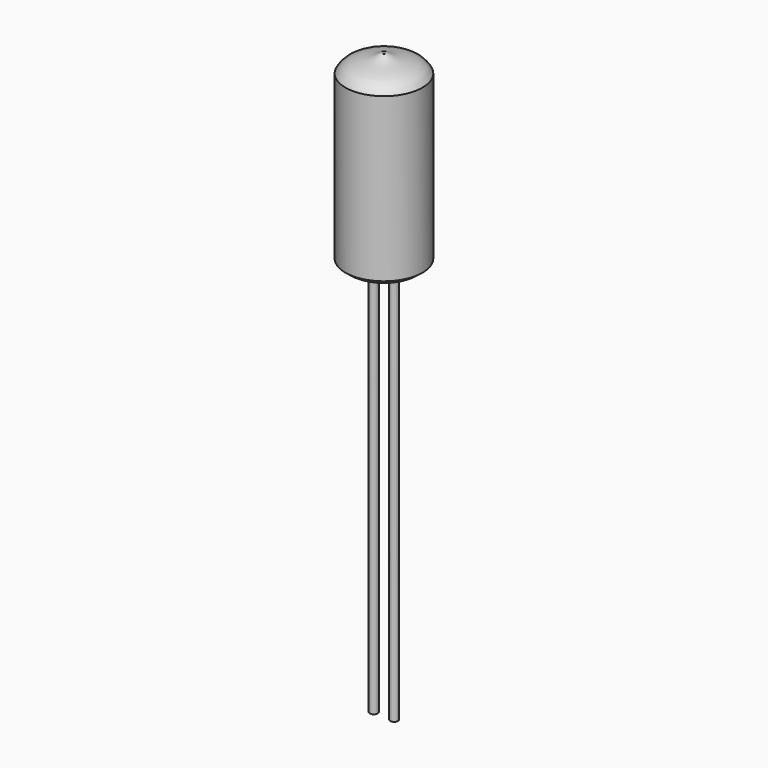
from build123d import *

# Parameters (mm, degrees)
F2_R     = 0.25
F3_DEPTH = 25


with BuildPart() as f1:
    # F0 (on Front) → F1 (revolve)
    with BuildSketch(Plane.XZ):
        with BuildLine():
            Line((-1.0382650653, 0), (0, 0))
            Line((0, 0), (0, 12))
            add(Edge.make_bspline(
                [(-2.45, 10.9379906207), (-2.4408226597, 10.9550904713), (-2.4150316272, 11.0031460941), (-2.2904333871, 11.1886248685), (-2.1793829443, 11.2995767876), (-2.1283320627, 11.3354263793), (-2.0145301666, 11.4101657989), (-1.8563212018, 11.5062887896), (-1.8082964332, 11.5164931668), (-1.633264387, 11.5868643692), (-1.5955772168, 11.5974742685), (-1.3484611952, 11.6647808366), (-1.3058570041, 11.6924752849), (-0.9785214669, 11.7552893113), (-0.9403281208, 11.7583848941), (-0.6814909867, 11.8312193407), (-0.6075481122, 11.8505189077), (-0.4388175634, 11.9485238901), (-0.3754975974, 11.9686171293), (-0.1800163548, 12.0825378272), (-0.1188716937, 12.0922782094), (-0.0451248597, 12.0350297124), (0, 12)],
                knots=[0, 0, 0, 0, 0.0364434064, 0.102416719, 0.1571040238, 0.1904604062, 0.2419780706, 0.3004231144, 0.3339859809, 0.3912154733, 0.4245090292, 0.4908537565, 0.5299771886, 0.6060921831, 0.6405780798, 0.7089114892, 0.7522989631, 0.8100456515, 0.8499587891, 0.9138407903, 0.947280147, 1, 1, 1, 1], degree=3))
            Line((-2.45, 10.9379906207), (-2.45, 0.5833121465))
            ThreePointArc((-2.45, 0.5833121465), (-1.802013811, 0.1515715179), (-1.0382650653, 0))
        make_face()
    revolve(axis=Axis((0, 0, 6), (0, 0, 1)))

    # F2 (on face) → F3 (join)
    with BuildSketch(Plane(origin=(0, 0, 0), x_dir=(1, 0, 0), z_dir=(0, 0, -1))):
        with Locations((0.6482650642, 0)):
            Circle(F2_R)
        with Locations((-0.6482650642, 0)):
            Circle(F2_R)
    extrude(amount=F3_DEPTH)


solid = f1.part
